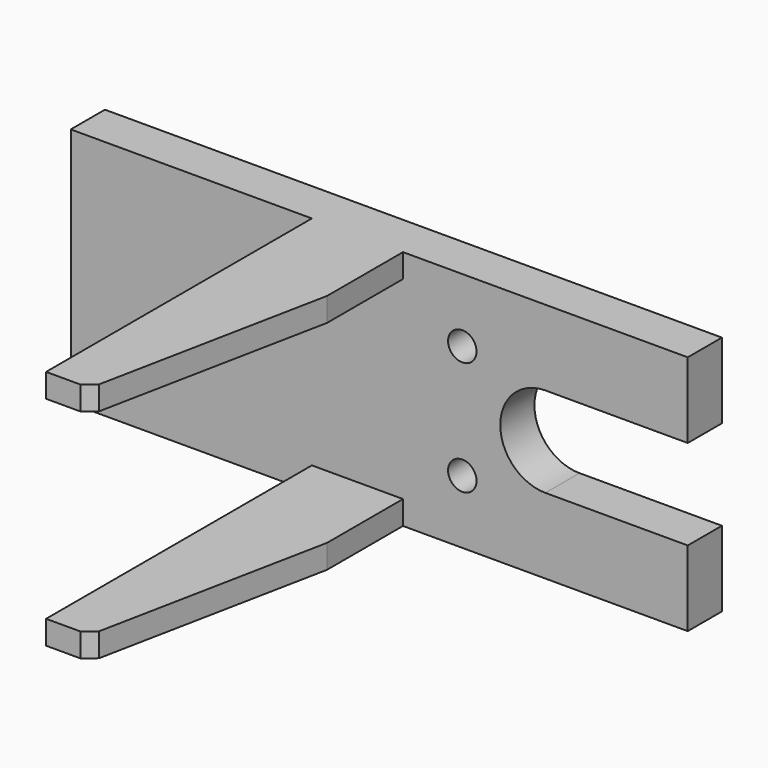
from build123d import *

# Parameters (mm, degrees)
F0_R     = 3
F0_W     = 20
F0_H     = 5
F1_DEPTH = 9
F2_W     = 19.2
F2_H     = 5
F3_DEPTH = 70
F4_SIZE2 = 50
F4_SIZE  = 10
F5_SIZE2 = 50
F5_SIZE  = 10
F6_SIZE  = 2


with BuildPart() as f1:
    # F0 (on Front) → F1 (new body)
    with BuildSketch(Plane.XZ):
        with BuildLine():
            Line((-19.2, 25.4), (-70, 25.4))
            Line((-70, 25.4), (-70, -25.4))
            Line((-70, -25.4), (-19.2, -25.4))
            Line((-19.2, -25.4), (-19.2, -20.4))
            Line((-19.2, -20.4), (0.8, -20.4))
            Line((0.8, -20.4), (0.8, -25.4))
            Line((0.8, -25.4), (60, -25.4))
            Line((60, -25.4), (60, -9.5))
            Line((60, -9.5), (30, -9.5))
            ThreePointArc((30, -9.5), (20.5, 0), (30, 9.5))
            Line((30, 9.5), (60, 9.5))
            Line((60, 9.5), (60, 25.4))
            Line((60, 25.4), (0.8, 25.4))
            Line((0.8, 25.4), (0.8, 20.4))
            Line((0.8, 20.4), (-19.2, 20.4))
            Line((-19.2, 20.4), (-19.2, 25.4))
        make_face()
        with Locations((12.5, -12)):
            Circle(F0_R, mode=Mode.SUBTRACT)
        with Locations((12.5, 12)):
            Circle(F0_R, mode=Mode.SUBTRACT)
        with Locations((-9.2, 22.9)):
            Rectangle(F0_W, F0_H)
        with Locations((-9.2, -22.9)):
            Rectangle(F0_W, F0_H)
    extrude(amount=-F1_DEPTH)

    # F2 (on face) → F3 (join)
    with BuildSketch(Plane.XZ):
        with Locations((-9.6, 22.9)):
            Rectangle(F2_W, F2_H)
        with Locations((-9.6, -22.9)):
            Rectangle(F2_W, F2_H)
    extrude(amount=F3_DEPTH)

    # F4
    f4_edges = [f1.edges().sort_by_distance(p)[0] for p in [
        (0, -70, 22.9),
    ]]
    f4_side = f1.faces().sort_by_distance((-9.6, -70, 22.9))[0]
    chamfer(f4_edges, length=F4_SIZE, length2=F4_SIZE2, reference=f4_side)

    # F5
    f5_edges = [f1.edges().sort_by_distance(p)[0] for p in [
        (0, -70, -22.9),
    ]]
    f5_side = f1.faces().sort_by_distance((-9.6, -70, -22.9))[0]
    chamfer(f5_edges, length=F5_SIZE, length2=F5_SIZE2, reference=f5_side)

    # F6
    f6_edges = [f1.edges().sort_by_distance(p)[0] for p in [
        (-10, -70, 22.9),
        (-10, -70, -22.9),
    ]]
    chamfer(f6_edges, length=F6_SIZE)


solid = f1.part
